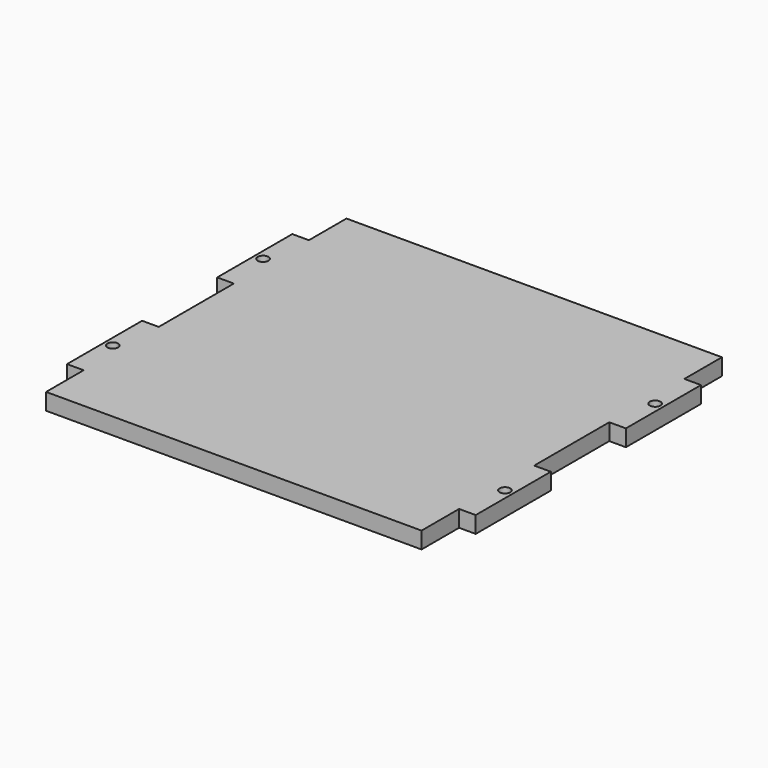
from build123d import *

# Parameters (mm, degrees)
F0_R     = 1.4478
F1_DEPTH = 4.4958


with BuildPart() as f1:
    # F0 (on Top) → F1 (new body)
    with BuildSketch(Plane.XY):
        Polygon((50.8, 50.8), (-50.8, 50.8), (-50.8, 38.1), (-55.2958, 38.1), (-55.2958, 12.7), (-50.8, 12.7), (-50.8, 0), (-50.8, -12.7), (-55.2958, -12.7), (-55.2958, -38.1), (-50.8, -38.1), (-50.8, -50.8), (50.8, -50.8), (50.8, -38.1), (55.2958, -38.1), (55.2958, -12.7), (50.8, -12.7), (50.8, 0), (50.8, 12.7), (55.2958, 12.7), (55.2958, 38.1), (50.8, 38.1), align=None)
        with Locations((-53.0479, -25.4)):
            Circle(F0_R, mode=Mode.SUBTRACT)
        with Locations((53.0479, -25.4)):
            Circle(F0_R, mode=Mode.SUBTRACT)
        with Locations((-53.0479, 25.4)):
            Circle(F0_R, mode=Mode.SUBTRACT)
        with Locations((53.0479, 25.4)):
            Circle(F0_R, mode=Mode.SUBTRACT)
    extrude(amount=F1_DEPTH)


solid = f1.part
